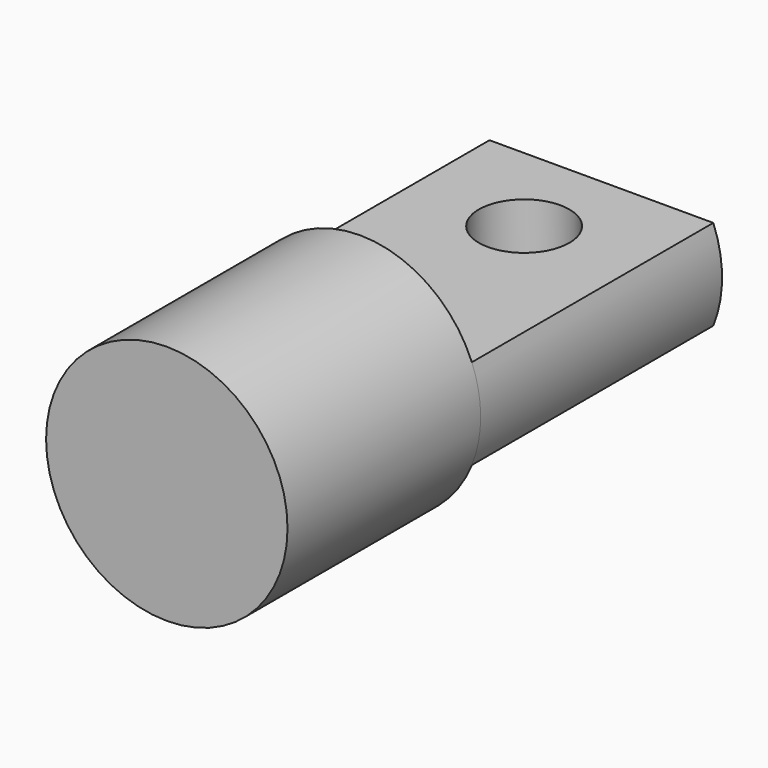
from build123d import *

# Parameters (mm, degrees)
SKETCH002_R     = 2
PAD_DEPTH       = 4
PAD001_DEPTH    = 5
SKETCH004_R     = 0.75
POCKET001_DEPTH = 5


with BuildPart() as part:
    # Sketch002 → Pad (new body)
    with BuildSketch(Plane.XZ):
        Circle(SKETCH002_R)
    extrude(amount=PAD_DEPTH)

    # Sketch003 (on Face2 of Pad) → Pad001 (join)
    with BuildSketch(Plane(origin=(0, 0, 0), x_dir=(1, 0, 0), z_dir=(0, 1, 0))):
        with BuildLine():
            Line((-1.85405, 0.75), (1.85405, 0.75))
            ThreePointArc((1.85405, -0.75), (2, 0), (1.85405, 0.75))
            Line((1.85405, -0.75), (-1.85405, -0.75))
            ThreePointArc((-1.85405, 0.75), (-2, 0), (-1.85405, -0.75))
        make_face()
    extrude(amount=PAD001_DEPTH)

    # Sketch004 (on Face2 of Pad001) → Pocket001 (cut)
    with BuildSketch(Plane(origin=(0, 0, -0.75), x_dir=(1, 0, 0), z_dir=(0, 0, -1))):
        with Locations((0, -3.4)):
            Circle(SKETCH004_R)
    extrude(amount=-POCKET001_DEPTH, mode=Mode.SUBTRACT)


with BuildPart() as part_1:
    # Body001 placement: moved
    add(part.part.moved(Location((0, 48, 6))))


solid = part_1.part
